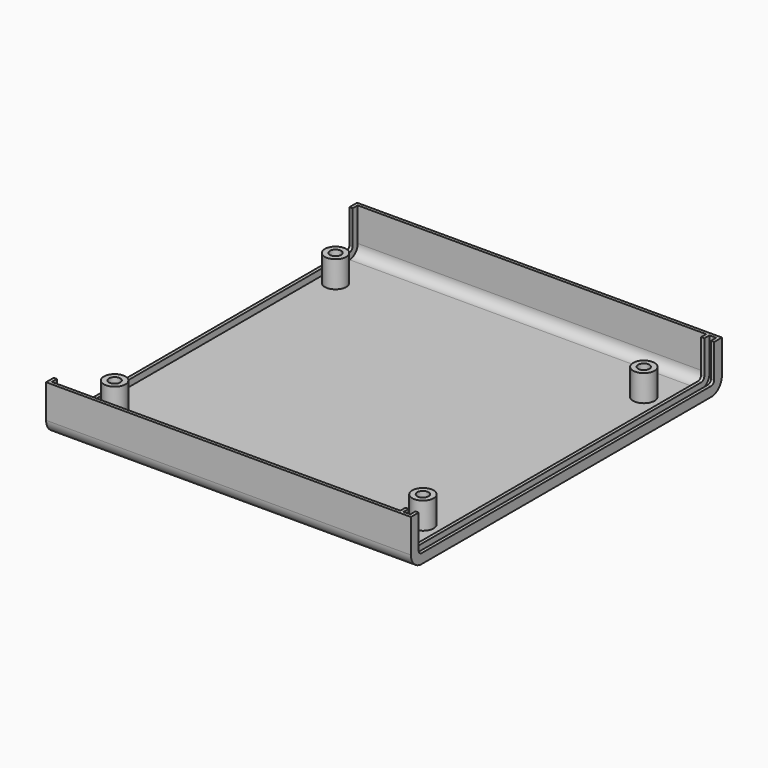
from build123d import *

# Parameters (mm, degrees)
SKETCH002_R                   = 4
SKETCH002_R_2                 = 2.1
PAD_DEPTH                     = 9.9
SKETCH002_LINEARPATTERN_2_R   = 4
SKETCH002_LINEARPATTERN_2_R_2 = 2.1
PAD_LINEARPATTERN_2_DEPTH     = 9.9
LINEARPATTERN001_COUNT        = 2
LINEARPATTERN001_PITCH        = 103


with BuildPart() as part:
    # AdditivePipe: sweep along a path in Sketch
    with BuildLine(Plane.YZ) as additivepipe_path:
        Line((-72.5, 17.5), (-72.5, 5))
        ThreePointArc((-72.5, 5), (-71.035534, 1.464466), (-67.5, 0))
        Line((-67.5, 0), (67.5, 0))
        ThreePointArc((67.5, 0), (71.035534, 1.464466), (72.5, 5))
        Line((72.5, 5), (72.5, 17.5))
    # Sketch001 → AdditivePipe (sweep)
    with BuildSketch(Plane.XY.offset(17.5)):
        Polygon((0, -72.5), (-136.1, -72.5), (-136.1, -68.9), (-134.9, -68.9), (-134.9, -71.3), (-4.9, -71.3), (-4.9, -68.9), (-3.7, -68.9), (-3.7, -71.3), (-1.2, -71.3), (-1.2, -68.9), (0, -68.9), align=None)
    sweep(path=additivepipe_path.line)

    # Sketch002 → Pad (new body)
    with BuildSketch(Plane.XY.offset(1.2)):
        with Locations((-128.9, -49.535)):
            Circle(SKETCH002_R)
        with Locations((-128.9, -49.535)):
            Circle(SKETCH002_R_2, mode=Mode.SUBTRACT)
    pad = extrude(amount=PAD_DEPTH)

    # Sketch002 LinearPattern 2 → Pad LinearPattern 2 (add)
    with BuildSketch(Plane(origin=(115, 0, 1.2), x_dir=(1, 0, 0), z_dir=(0, 0, 1))):
        with Locations((-128.9, -49.535)):
            Circle(SKETCH002_LINEARPATTERN_2_R)
        with Locations((-128.9, -49.535)):
            Circle(SKETCH002_LINEARPATTERN_2_R_2, mode=Mode.SUBTRACT)
    pad_linearpattern_2 = extrude(amount=PAD_LINEARPATTERN_2_DEPTH)

    # LinearPattern001: Pad, Pad LinearPattern 2 ×2
    with Locations(*[(0, i * LINEARPATTERN001_PITCH, 0) for i in range(1, LINEARPATTERN001_COUNT)]):
        add(pad)
        add(pad_linearpattern_2)


solid = part.part
